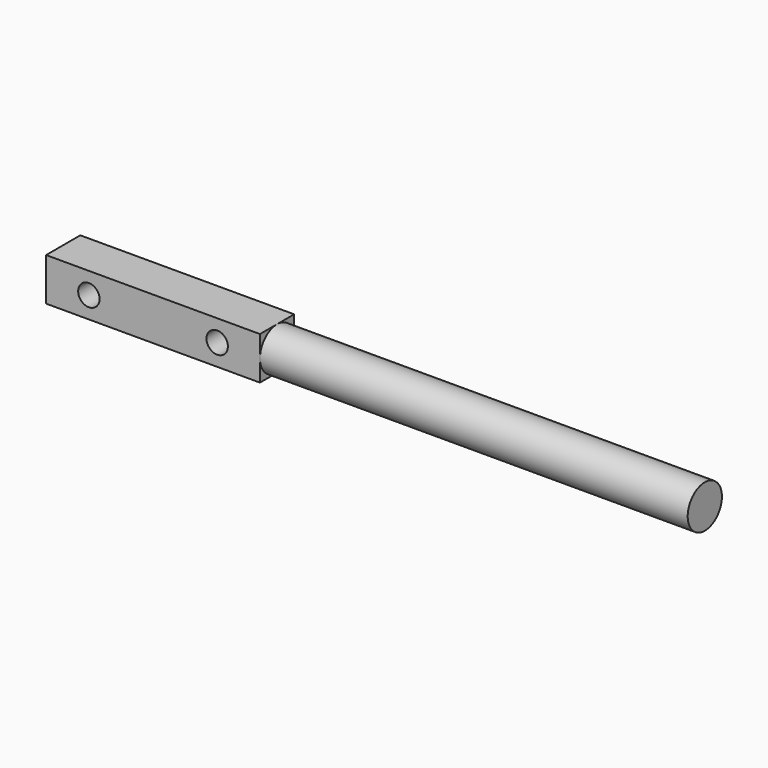
from build123d import *

# Parameters (mm, degrees)
F0_W     = 63.5
F0_H     = 12.7
F0_R     = 3.175
F1_DEPTH = 6.35
F2_R     = 6.35
F3_DEPTH = 127


with BuildPart() as f1:
    # F0 (on Front) → F1 (new body, symmetric)
    with BuildSketch(Plane.XZ):
        with Locations((31.75, 0)):
            Rectangle(F0_W, F0_H)
        with Locations((12.7, 0)):
            Circle(F0_R, mode=Mode.SUBTRACT)
        with Locations((50.8, 0)):
            Circle(F0_R, mode=Mode.SUBTRACT)
    extrude(amount=F1_DEPTH, both=True)

    # F2 (on face) → F3 (join)
    with BuildSketch(Plane.YZ.offset(63.5)):
        Circle(F2_R)
    extrude(amount=F3_DEPTH)


solid = f1.part
